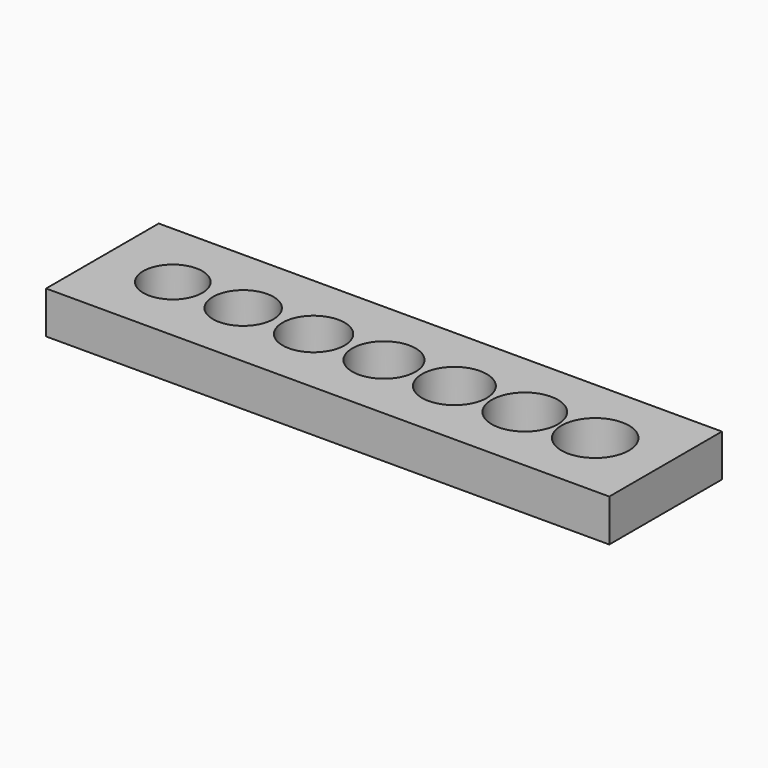
from build123d import *

# Parameters (mm, degrees)
SKETCH_W   = 40
SKETCH_H   = 10
SKETCH_R   = 2.1
SKETCH_R_2 = 2.2
SKETCH_R_3 = 2.15
SKETCH_R_4 = 2.25
SKETCH_R_5 = 2.3
SKETCH_R_6 = 2.35
SKETCH_R_7 = 2.4
PAD_DEPTH  = 3


with BuildPart() as part:
    # Sketch → Pad (new body)
    with BuildSketch(Plane.XY):
        with Locations((20, 5)):
            Rectangle(SKETCH_W, SKETCH_H)
        with Locations((5, 5)):
            Circle(SKETCH_R, mode=Mode.SUBTRACT)
        with Locations((15, 5)):
            Circle(SKETCH_R_2, mode=Mode.SUBTRACT)
        with Locations((10, 5)):
            Circle(SKETCH_R_3, mode=Mode.SUBTRACT)
        with Locations((20, 5)):
            Circle(SKETCH_R_4, mode=Mode.SUBTRACT)
        with Locations((25, 5)):
            Circle(SKETCH_R_5, mode=Mode.SUBTRACT)
        with Locations((30, 5)):
            Circle(SKETCH_R_6, mode=Mode.SUBTRACT)
        with Locations((35, 5)):
            Circle(SKETCH_R_7, mode=Mode.SUBTRACT)
    extrude(amount=PAD_DEPTH)


solid = part.part
